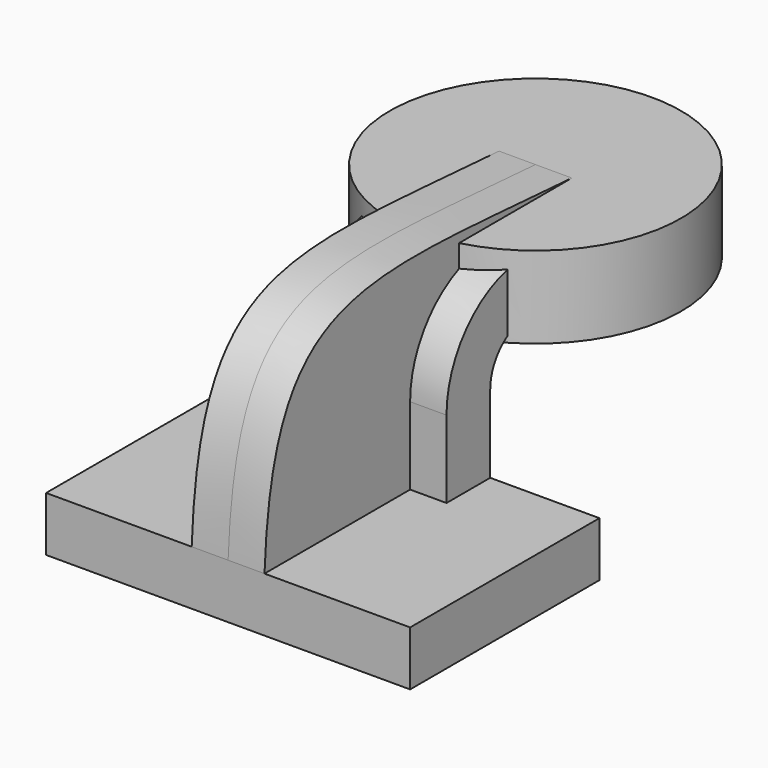
from build123d import *

# Parameters (mm, degrees)
F1_DEPTH = 63.5
F2_DEPTH = 25.4
F3_DEPTH = 12.7


with BuildPart() as f1:
    # F0 (on Right) → F1 (new body, symmetric)
    with BuildSketch(Plane.YZ):
        Polygon((22.225, 9.525), (-41.275, 9.525), (-41.275, -9.525), (41.275, -9.525), (41.275, 9.525), align=None)
    extrude(amount=F1_DEPTH, both=True)

    # F0 (on Right) → F2 (join, symmetric)
    with BuildSketch(Plane.YZ):
        with BuildLine():
            Line((22.225, 36.5125), (22.225, 9.525))
            Line((22.225, 9.525), (41.275, 9.525))
            Line((41.275, 9.525), (41.275, 36.5125))
            ThreePointArc((41.275, 36.5125), (45.92468, 47.73782), (57.15, 52.3875))
            Line((57.15, 52.3875), (92.761105, 52.3875))
            Line((92.761105, 52.3875), (92.761105, 71.4375))
            Line((92.761105, 71.4375), (57.15, 71.4375))
            ThreePointArc((57.15, 71.4375), (32.454296, 61.208204), (22.225, 36.5125))
        make_face()
    extrude(amount=F2_DEPTH, both=True)

    # F0 (on Right) → F3 (join, symmetric)
    with BuildSketch(Plane.YZ):
        with BuildLine():
            add(Edge.make_bspline(
                [(-41.275, 9.525), (-37.458211, 92.56649), (0, 82.461342), (92.761105, 76.538539)],
                knots=[0, 0, 0, 0, 149.854902, 149.854902, 149.854902, 149.854902], degree=3))
            Line((-41.275, 9.525), (22.225, 9.525))
            Line((22.225, 9.525), (22.225, 36.5125))
            ThreePointArc((22.225, 36.5125), (32.454296, 61.208204), (57.15, 71.4375))
            Line((57.15, 71.4375), (92.761105, 71.4375))
            Line((92.761105, 71.4375), (92.761105, 76.538539))
        make_face()
    extrude(amount=F3_DEPTH, both=True)

    # F0 (on Right) → F4 (revolve)
    with BuildSketch(Plane.YZ):
        Polygon((143.561105, 76.538539), (92.761105, 76.538539), (92.761105, 71.4375), (92.761105, 52.3875), (92.761105, 47.963539), (143.561105, 47.963539), align=None)
    revolve(axis=Axis((0, 92.761105, 62.251039), (0, 0, 1)))


solid = f1.part
